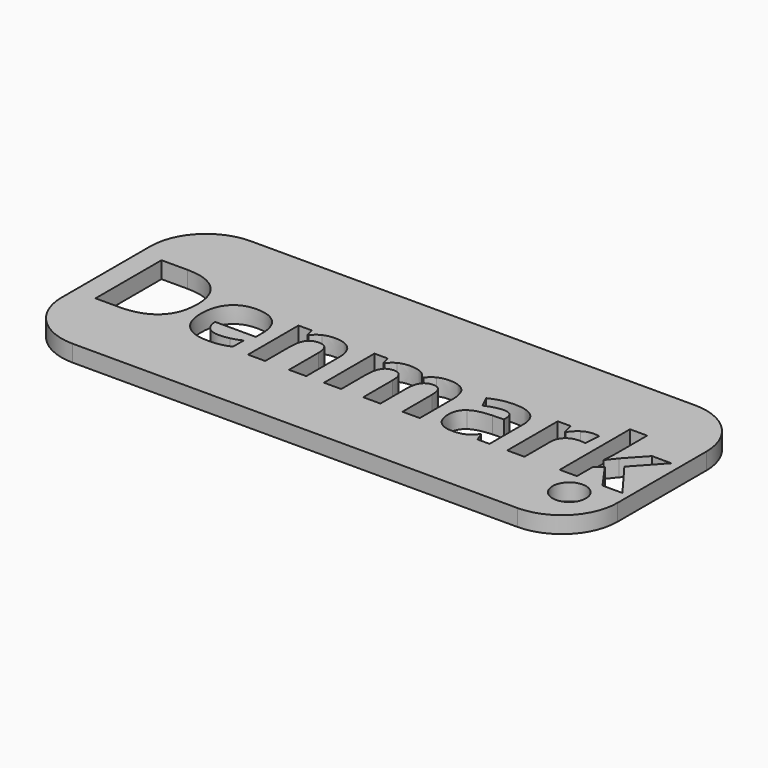
from build123d import *

# Parameters (mm, degrees)
F0_W     = 50
F0_H     = 20
F0_R     = 1.5
F1_DEPTH = 1.5
F2_R     = 5


with BuildPart() as f1:
    # F0 (on Top) → F1 (new body)
    with BuildSketch(Plane.XY):
        Rectangle(F0_W, F0_H)
        with BuildLine():
            add(Edge.make_bspline(
                [(-11.7958892757, -3.6088702759), (-12.2572186309, -3.7079586234), (-12.9232222775, -3.7079586234)],
                knots=[0, 0, 0, 1, 1, 1], degree=2))
            add(Edge.make_bspline(
                [(-12.9232222775, -3.7079586234), (-14.2925907509, -3.7079586234), (-15.0641803415, -2.950988625)],
                knots=[0, 0, 0, 1, 1, 1], degree=2))
            add(Edge.make_bspline(
                [(-15.0641803415, -2.950988625), (-15.835769932, -2.1940186267), (-15.835769932, -0.8084061619)],
                knots=[0, 0, 0, 1, 1, 1], degree=2))
            add(Edge.make_bspline(
                [(-15.835769932, -0.8084061619), (-15.835769932, 0.6178162813), (-15.1226587104, 1.396715668)],
                knots=[0, 0, 0, 1, 1, 1], degree=2))
            add(Edge.make_bspline(
                [(-15.1226587104, 1.396715668), (-14.4095474888, 2.1756150547), (-13.1506381568, 2.1756150547)],
                knots=[0, 0, 0, 1, 1, 1], degree=2))
            add(Edge.make_bspline(
                [(-13.1506381568, 2.1756150547), (-11.9485827946, 2.1756150547), (-11.2785181502, 1.490930818)],
                knots=[0, 0, 0, 1, 1, 1], degree=2))
            add(Edge.make_bspline(
                [(-11.2785181502, 1.490930818), (-10.6084535057, 0.8062465813), (-10.6084535057, -0.4023063774)],
                knots=[0, 0, 0, 1, 1, 1], degree=2))
            Line((-10.6084535057, -0.4023063774), (-10.6084535057, -1.1544031783))
            Line((-10.6084535057, -1.1544031783), (-14.2682247638, -1.1544031783))
            add(Edge.make_bspline(
                [(-14.2682247638, -1.1544031783), (-14.2422343776, -1.8139092284), (-13.8767445715, -2.1842722318)],
                knots=[0, 0, 0, 1, 1, 1], degree=2))
            add(Edge.make_bspline(
                [(-13.8767445715, -2.1842722318), (-13.5112547655, -2.5546352353), (-12.8517487154, -2.5546352353)],
                knots=[0, 0, 0, 1, 1, 1], degree=2))
            add(Edge.make_bspline(
                [(-12.8517487154, -2.5546352353), (-12.3384385878, -2.5546352353), (-11.88198243, -2.4482370918)],
                knots=[0, 0, 0, 1, 1, 1], degree=2))
            add(Edge.make_bspline(
                [(-11.88198243, -2.4482370918), (-11.4255262722, -2.3418389482), (-10.9284601359, -2.1079254724)],
                knots=[0, 0, 0, 1, 1, 1], degree=2))
            Line((-10.9284601359, -2.1079254724), (-10.9284601359, -3.3067320363))
            add(Edge.make_bspline(
                [(-10.9284601359, -3.3067320363), (-11.3345599204, -3.5097819285), (-11.7958892757, -3.6088702759)],
                knots=[0, 0, 0, 1, 1, 1], degree=2))
        make_face(mode=Mode.SUBTRACT)
        with BuildLine():
            Line((-4.1108569534, 0.0947597589), (-4.1108569534, -3.6056214777))
            Line((-4.1108569534, -3.6056214777), (-5.658909332, -3.6056214777))
            Line((-5.658909332, -3.6056214777), (-5.658909332, -0.2902228369))
            add(Edge.make_bspline(
                [(-5.658909332, -0.2902228369), (-5.658909332, 0.3238000373), (-5.8773910161, 0.6308114744)],
                knots=[0, 0, 0, 1, 1, 1], degree=2))
            add(Edge.make_bspline(
                [(-5.8773910161, 0.6308114744), (-6.0958727001, 0.9378229115), (-6.5734460467, 0.9378229115)],
                knots=[0, 0, 0, 1, 1, 1], degree=2))
            add(Edge.make_bspline(
                [(-6.5734460467, 0.9378229115), (-7.223205702, 0.9378229115), (-7.5123487485, 0.5041083417)],
                knots=[0, 0, 0, 1, 1, 1], degree=2))
            add(Edge.make_bspline(
                [(-7.5123487485, 0.5041083417), (-7.8014917951, 0.0703937718), (-7.8014917951, -0.9351092947)],
                knots=[0, 0, 0, 1, 1, 1], degree=2))
            Line((-7.8014917951, -0.9351092947), (-7.8014917951, -3.6056214777))
            Line((-7.8014917951, -3.6056214777), (-9.3495441737, -3.6056214777))
            Line((-9.3495441737, -3.6056214777), (-9.3495441737, 2.0700291108))
            Line((-9.3495441737, 2.0700291108), (-8.1669816012, 2.0700291108))
            Line((-8.1669816012, 2.0700291108), (-7.9590585115, 1.3439226961))
            Line((-7.9590585115, 1.3439226961), (-7.8729653572, 1.3439226961))
            add(Edge.make_bspline(
                [(-7.8729653572, 1.3439226961), (-7.6130614951, 1.754895678), (-7.159041936, 1.9652553664)],
                knots=[0, 0, 0, 1, 1, 1], degree=2))
            add(Edge.make_bspline(
                [(-7.159041936, 1.9652553664), (-6.7050223769, 2.1756150547), (-6.1267362838, 2.1756150547)],
                knots=[0, 0, 0, 1, 1, 1], degree=2))
            add(Edge.make_bspline(
                [(-6.1267362838, 2.1756150547), (-5.1358528095, 2.1756150547), (-4.6233548815, 1.6403755387)],
                knots=[0, 0, 0, 1, 1, 1], degree=2))
            add(Edge.make_bspline(
                [(-4.6233548815, 1.6403755387), (-4.1108569534, 1.1051360228), (-4.1108569534, 0.0947597589)],
                knots=[0, 0, 0, 1, 1, 1], degree=2))
        make_face(mode=Mode.SUBTRACT)
        with Locations((21.3439222425, -5.8476706035)):
            Circle(F0_R, mode=Mode.SUBTRACT)
        with BuildLine():
            Line((2.5637991049, -0.7580497886), (2.5637991049, -3.6056214777))
            Line((2.5637991049, -3.6056214777), (1.0157467263, -3.6056214777))
            Line((1.0157467263, -3.6056214777), (1.0157467263, -0.2902228369))
            add(Edge.make_bspline(
                [(1.0157467263, -0.2902228369), (1.0157467263, 0.3238000373), (0.8102602354, 0.6308114744)],
                knots=[0, 0, 0, 1, 1, 1], degree=2))
            add(Edge.make_bspline(
                [(0.8102602354, 0.6308114744), (0.6047737444, 0.9378229115), (0.1629371788, 0.9378229115)],
                knots=[0, 0, 0, 1, 1, 1], degree=2))
            add(Edge.make_bspline(
                [(0.1629371788, 0.9378229115), (-0.4315929057, 0.9378229115), (-0.700430963, 0.5008595434)],
                knots=[0, 0, 0, 1, 1, 1], degree=2))
            add(Edge.make_bspline(
                [(-0.700430963, 0.5008595434), (-0.9692690204, 0.0638961752), (-0.9692690204, -0.9351092947)],
                knots=[0, 0, 0, 1, 1, 1], degree=2))
            Line((-0.9692690204, -0.9351092947), (-0.9692690204, -3.6056214777))
            Line((-0.9692690204, -3.6056214777), (-2.517321399, -3.6056214777))
            Line((-2.517321399, -3.6056214777), (-2.517321399, 2.0700291108))
            Line((-2.517321399, 2.0700291108), (-1.3347588265, 2.0700291108))
            Line((-1.3347588265, 2.0700291108), (-1.1268357368, 1.3439226961))
            Line((-1.1268357368, 1.3439226961), (-1.0407425825, 1.3439226961))
            add(Edge.make_bspline(
                [(-1.0407425825, 1.3439226961), (-0.811702304, 1.7354028883), (-0.3804243328, 1.9555089715)],
                knots=[0, 0, 0, 1, 1, 1], degree=2))
            add(Edge.make_bspline(
                [(-0.3804243328, 1.9555089715), (0.0508536383, 2.1756150547), (0.6096469418, 2.1756150547)],
                knots=[0, 0, 0, 1, 1, 1], degree=2))
            add(Edge.make_bspline(
                [(0.6096469418, 2.1756150547), (1.8831758661, 2.1756150547), (2.3363832256, 1.3439226961)],
                knots=[0, 0, 0, 1, 1, 1], degree=2))
            Line((2.3363832256, 1.3439226961), (2.4728327532, 1.3439226961))
            add(Edge.make_bspline(
                [(2.4728327532, 1.3439226961), (2.7018730317, 1.7402760857), (3.1453339964, 1.9579455702)],
                knots=[0, 0, 0, 1, 1, 1], degree=2))
            add(Edge.make_bspline(
                [(3.1453339964, 1.9579455702), (3.588794961, 2.1756150547), (4.1475882645, 2.1756150547)],
                knots=[0, 0, 0, 1, 1, 1], degree=2))
            add(Edge.make_bspline(
                [(4.1475882645, 2.1756150547), (5.1124813526, 2.1756150547), (5.6071108901, 1.6809855172)],
                knots=[0, 0, 0, 1, 1, 1], degree=2))
            add(Edge.make_bspline(
                [(5.6071108901, 1.6809855172), (6.1017404276, 1.1863559797), (6.1017404276, 0.0947597589)],
                knots=[0, 0, 0, 1, 1, 1], degree=2))
            Line((6.1017404276, 0.0947597589), (6.1017404276, -3.6056214777))
            Line((6.1017404276, -3.6056214777), (4.5488148516, -3.6056214777))
            Line((4.5488148516, -3.6056214777), (4.5488148516, -0.2902228369))
            add(Edge.make_bspline(
                [(4.5488148516, -0.2902228369), (4.5488148516, 0.3238000373), (4.3433283607, 0.6308114744)],
                knots=[0, 0, 0, 1, 1, 1], degree=2))
            add(Edge.make_bspline(
                [(4.3433283607, 0.6308114744), (4.1378418697, 0.9378229115), (3.6960053042, 0.9378229115)],
                knots=[0, 0, 0, 1, 1, 1], degree=2))
            add(Edge.make_bspline(
                [(3.6960053042, 0.9378229115), (3.1274656058, 0.9378229115), (2.8456323554, 0.531723127)],
                knots=[0, 0, 0, 1, 1, 1], degree=2))
            add(Edge.make_bspline(
                [(2.8456323554, 0.531723127), (2.5637991049, 0.1256233425), (2.5637991049, -0.7580497886)],
                knots=[0, 0, 0, 1, 1, 1], degree=2))
        make_face(mode=Mode.SUBTRACT)
        with BuildLine():
            Line((12.3751698989, -3.6056214777), (11.2949444721, -3.6056214777))
            Line((11.2949444721, -3.6056214777), (10.9944306315, -2.8340318871))
            Line((10.9944306315, -2.8340318871), (10.9538206531, -2.8340318871))
            add(Edge.make_bspline(
                [(10.9538206531, -2.8340318871), (10.5639648599, -3.3262248259), (10.1497430797, -3.5170917246)],
                knots=[0, 0, 0, 1, 1, 1], degree=2))
            add(Edge.make_bspline(
                [(10.1497430797, -3.5170917246), (9.7355212995, -3.7079586234), (9.071142052, -3.7079586234)],
                knots=[0, 0, 0, 1, 1, 1], degree=2))
            add(Edge.make_bspline(
                [(9.071142052, -3.7079586234), (8.2540692856, -3.7079586234), (7.7846179347, -3.2401316716)],
                knots=[0, 0, 0, 1, 1, 1], degree=2))
            add(Edge.make_bspline(
                [(7.7846179347, -3.2401316716), (7.3151665838, -2.7723047198), (7.3151665838, -1.9097487775)],
                knots=[0, 0, 0, 1, 1, 1], degree=2))
            add(Edge.make_bspline(
                [(7.3151665838, -1.9097487775), (7.3151665838, -1.0065828567), (7.9470578485, -0.5777414843)],
                knots=[0, 0, 0, 1, 1, 1], degree=2))
            add(Edge.make_bspline(
                [(7.9470578485, -0.5777414843), (8.5789491132, -0.1489001118), (9.8524780375, -0.103416936)],
                knots=[0, 0, 0, 1, 1, 1], degree=2))
            Line((9.8524780375, -0.103416936), (10.8384883143, -0.0725533524))
            Line((10.8384883143, -0.0725533524), (10.8384883143, 0.1759797158))
            add(Edge.make_bspline(
                [(10.8384883143, 0.1759797158), (10.8384883143, 1.0385356581), (9.9548151832, 1.0385356581)],
                knots=[0, 0, 0, 1, 1, 1], degree=2))
            add(Edge.make_bspline(
                [(9.9548151832, 1.0385356581), (9.2741919443, 1.0385356581), (8.3547820322, 0.6275626762)],
                knots=[0, 0, 0, 1, 1, 1], degree=2))
            Line((8.3547820322, 0.6275626762), (7.8430963037, 1.6736757211))
            add(Edge.make_bspline(
                [(7.8430963037, 1.6736757211), (8.8226089839, 2.1869858487), (10.0149179513, 2.1869858487)],
                knots=[0, 0, 0, 1, 1, 1], degree=2))
            add(Edge.make_bspline(
                [(10.0149179513, 2.1869858487), (11.1568705453, 2.1869858487), (11.7660202221, 1.6891075129)],
                knots=[0, 0, 0, 1, 1, 1], degree=2))
            add(Edge.make_bspline(
                [(11.7660202221, 1.6891075129), (12.3751698989, 1.1912291771), (12.3751698989, 0.1759797158)],
                knots=[0, 0, 0, 1, 1, 1], degree=2))
            Line((12.3751698989, 0.1759797158), (12.3751698989, -3.6056214777))
        make_face(mode=Mode.SUBTRACT)
        with BuildLine():
            add(Edge.make_bspline(
                [(16.1608320902, 1.8840354095), (16.6099784518, 2.1756150547), (17.1379081717, 2.1756150547)],
                knots=[0, 0, 0, 1, 1, 1], degree=2))
            add(Edge.make_bspline(
                [(17.1379081717, 2.1756150547), (17.4530416045, 2.1756150547), (17.6609646942, 2.1301318789)],
                knots=[0, 0, 0, 1, 1, 1], degree=2))
            Line((17.6609646942, 2.1301318789), (17.5440079562, 0.6795434486))
            add(Edge.make_bspline(
                [(17.5440079562, 0.6795434486), (17.3555776562, 0.7298998219), (17.0875517984, 0.7298998219)],
                knots=[0, 0, 0, 1, 1, 1], degree=2))
            add(Edge.make_bspline(
                [(17.0875517984, 0.7298998219), (16.3468257915, 0.7298998219), (15.9326040113, 0.348978224)],
                knots=[0, 0, 0, 1, 1, 1], degree=2))
            add(Edge.make_bspline(
                [(15.9326040113, 0.348978224), (15.5183822311, -0.0319433739), (15.5183822311, -0.7174398102)],
                knots=[0, 0, 0, 1, 1, 1], degree=2))
            Line((15.5183822311, -0.7174398102), (15.5183822311, -3.6056214777))
            Line((15.5183822311, -3.6056214777), (13.9703298525, -3.6056214777))
            Line((13.9703298525, -3.6056214777), (13.9703298525, 2.0700291108))
            Line((13.9703298525, 2.0700291108), (15.1431460302, 2.0700291108))
            Line((15.1431460302, 2.0700291108), (15.3721863086, 1.1148824176))
            Line((15.3721863086, 1.1148824176), (15.446908669, 1.1148824176))
            add(Edge.make_bspline(
                [(15.446908669, 1.1148824176), (15.7116857285, 1.5924557642), (16.1608320902, 1.8840354095)],
                knots=[0, 0, 0, 1, 1, 1], degree=2))
        make_face(mode=Mode.SUBTRACT)
        with BuildLine():
            add(Edge.make_bspline(
                [(-17.9133764296, 2.8570504932), (-16.9078733632, 1.8978428021), (-16.9078733632, 0.1759797158)],
                knots=[0, 0, 0, 1, 1, 1], degree=2))
            add(Edge.make_bspline(
                [(-16.9078733632, 0.1759797158), (-16.9078733632, -1.656342512), (-17.9515498094, -2.6309819948)],
                knots=[0, 0, 0, 1, 1, 1], degree=2))
            add(Edge.make_bspline(
                [(-17.9515498094, -2.6309819948), (-18.9952262556, -3.6056214777), (-20.9639980109, -3.6056214777)],
                knots=[0, 0, 0, 1, 1, 1], degree=2))
            Line((-20.9639980109, -3.6056214777), (-23.0659704956, -3.6056214777))
            Line((-23.0659704956, -3.6056214777), (-23.0659704956, 3.8162581842))
            Line((-23.0659704956, 3.8162581842), (-20.7365821316, 3.8162581842))
            add(Edge.make_bspline(
                [(-20.7365821316, 3.8162581842), (-18.9188794961, 3.8162581842), (-17.9133764296, 2.8570504932)],
                knots=[0, 0, 0, 1, 1, 1], degree=2))
        make_face(mode=Mode.SUBTRACT)
        Polygon((20.1576661694, -0.5192631153), (20.1787833582, -0.5192631153), (20.8529090005, 0.343292827), (22.4415713575, 2.0700291108), (24.187800431, 2.0700291108), (21.9347588265, -0.3925599826), (24.3258743577, -3.6056214777), (22.5390353058, -3.6056214777), (20.9048897729, -1.3054722981), (20.2388861263, -1.8382752154), (20.2388861263, -3.6056214777), (18.6908337477, -3.6056214777), (18.6908337477, 4.2938315308), (20.2388861263, 4.2938315308), (20.2388861263, 0.7705098003), align=None, mode=Mode.SUBTRACT)
    extrude(amount=F1_DEPTH)

    # F2
    f2_edges = [f1.edges().sort_by_distance(p)[0] for p in [
        (-25, -10, 0.75),
        (-25, 10, 0.75),
        (25, 10, 0.75),
        (25, -10, 0.75),
    ]]
    fillet(f2_edges, radius=F2_R)


solid = f1.part
